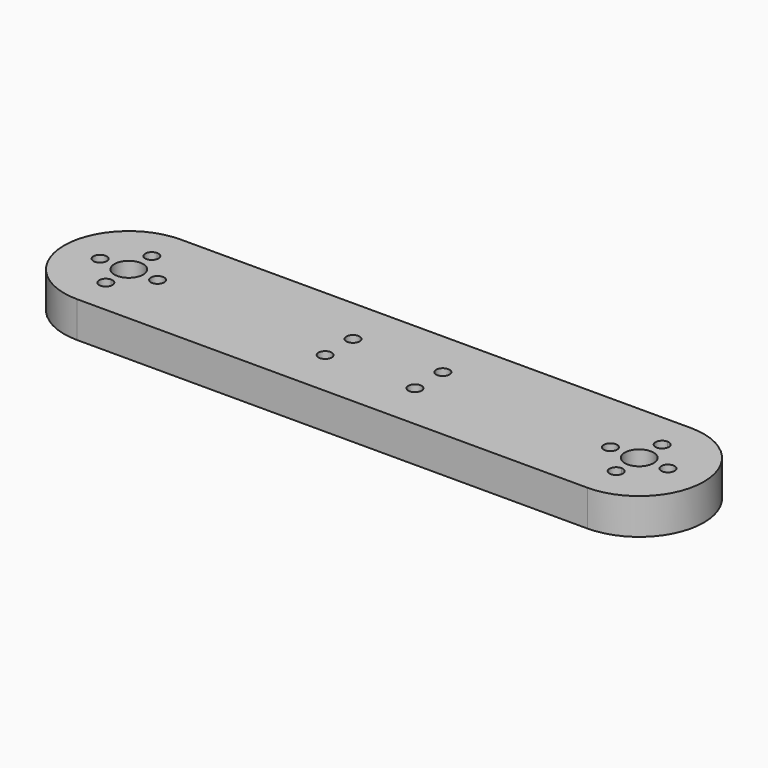
from build123d import *

# Parameters (mm, degrees)
F0_R     = 1.85
F0_R_2   = 4
F1_DEPTH = 10


with BuildPart() as f1:
    # F0 (on Top) → F1 (new body)
    with BuildSketch(Plane.XY):
        with BuildLine():
            Line((-71, -18), (71, -18))
            ThreePointArc((71, -18), (89, 0), (71, 18))
            Line((71, 18), (-71, 18))
            ThreePointArc((-71, 18), (-89, 0), (-71, -18))
        make_face()
        with BuildLine():
            ThreePointArc((-71, -6.15), (-69.691852, -6.691852), (-69.15, -8))
            ThreePointArc((-69.15, -8), (-69.691852, -9.308148), (-71, -9.85))
            ThreePointArc((-71, -9.85), (-72.85, -8), (-71, -6.15))
        make_face(mode=Mode.SUBTRACT)
        with Locations((-12.5, -4.85)):
            Circle(F0_R, mode=Mode.SUBTRACT)
        with Locations((12.5, -4.85)):
            Circle(F0_R, mode=Mode.SUBTRACT)
        with BuildLine():
            ThreePointArc((71, -6.15), (72.308148, -6.691852), (72.85, -8))
            ThreePointArc((72.85, -8), (72.308148, -9.308148), (71, -9.85))
            ThreePointArc((71, -9.85), (69.15, -8), (71, -6.15))
        make_face(mode=Mode.SUBTRACT)
        with Locations((-79, 0)):
            Circle(F0_R, mode=Mode.SUBTRACT)
        with Locations((-71, 0)):
            Circle(F0_R_2, mode=Mode.SUBTRACT)
        with Locations((-63, 0)):
            Circle(F0_R, mode=Mode.SUBTRACT)
        with BuildLine():
            ThreePointArc((-71, 9.85), (-69.691852, 9.308148), (-69.15, 8))
            ThreePointArc((-69.15, 8), (-69.691852, 6.691852), (-71, 6.15))
            ThreePointArc((-71, 6.15), (-72.85, 8), (-71, 9.85))
        make_face(mode=Mode.SUBTRACT)
        with Locations((-12.5, 4.85)):
            Circle(F0_R, mode=Mode.SUBTRACT)
        with Locations((12.5, 4.85)):
            Circle(F0_R, mode=Mode.SUBTRACT)
        with Locations((63, 0)):
            Circle(F0_R, mode=Mode.SUBTRACT)
        with Locations((71, 0)):
            Circle(F0_R_2, mode=Mode.SUBTRACT)
        with Locations((79, 0)):
            Circle(F0_R, mode=Mode.SUBTRACT)
        with BuildLine():
            ThreePointArc((71, 9.85), (72.308148, 9.308148), (72.85, 8))
            ThreePointArc((72.85, 8), (72.308148, 6.691852), (71, 6.15))
            ThreePointArc((71, 6.15), (69.15, 8), (71, 9.85))
        make_face(mode=Mode.SUBTRACT)
    extrude(amount=F1_DEPTH)


solid = f1.part
